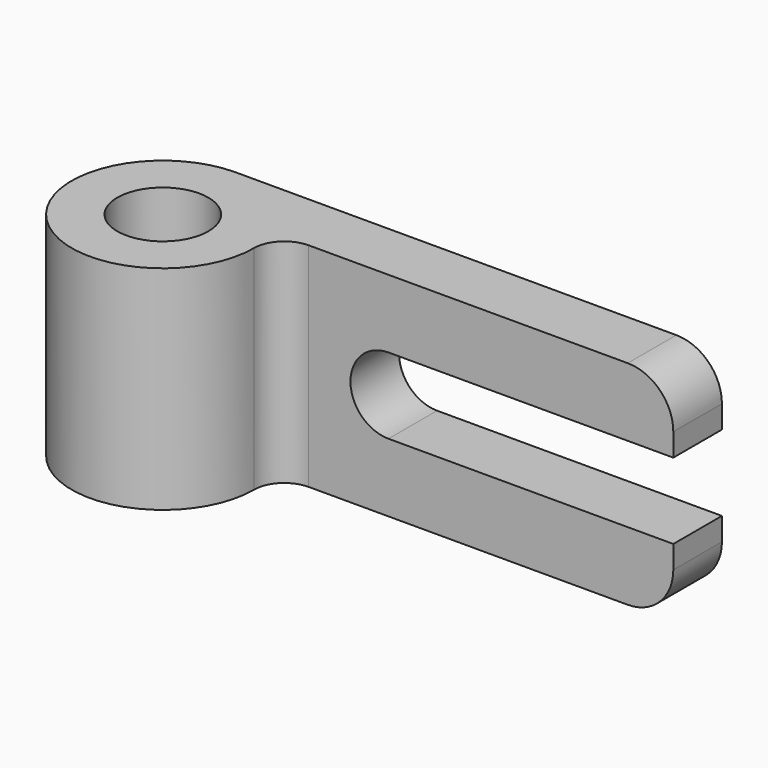
from build123d import *

# Parameters (mm, degrees)
F0_R     = 9.525
F1_DEPTH = 44.45
F3_DEPTH = 12.7


with BuildPart() as f1:
    # F0 (on Top) → F1 (new body)
    with BuildSketch(Plane.XY):
        with BuildLine():
            Line((63.5, 27.904718), (-38.1, 27.904718))
            ThreePointArc((-38.1, 27.904718), (-51.570384, -4.615666), (-19.05, 8.854718))
            ThreePointArc((-19.05, 8.854718), (-17.190128, 13.344846), (-12.7, 15.204718))
            Line((-12.7, 15.204718), (0, 15.204718))
            Line((0, 15.204718), (63.5, 15.204718))
            Line((63.5, 15.204718), (63.5, 27.904718))
        make_face()
        with Locations((-38.1, 8.854718)):
            Circle(F0_R, mode=Mode.SUBTRACT)
    extrude(amount=F1_DEPTH)

    # F2 (on face) → F3 (cut)
    with BuildSketch(Plane.XZ.offset(-15.204718)):
        with BuildLine():
            Line((63.5, 30.1625), (3.974834, 30.1625))
            ThreePointArc((3.974834, 30.1625), (-3.962666, 22.225), (3.974834, 14.2875))
            Line((3.974834, 14.2875), (63.5, 14.2875))
            Line((63.5, 14.2875), (63.5, 30.1625))
        make_face()
        with BuildLine():
            ThreePointArc((53.975, 44.45), (60.710192, 41.660192), (63.5, 34.925))
            Line((63.5, 34.925), (63.5, 44.45))
            Line((63.5, 44.45), (53.975, 44.45))
        make_face()
        with BuildLine():
            Line((63.5, 0), (63.5, 9.525))
            ThreePointArc((63.5, 9.525), (60.710192, 2.789808), (53.975, 0))
            Line((53.975, 0), (63.5, 0))
        make_face()
    extrude(amount=-F3_DEPTH, mode=Mode.SUBTRACT)


solid = f1.part
